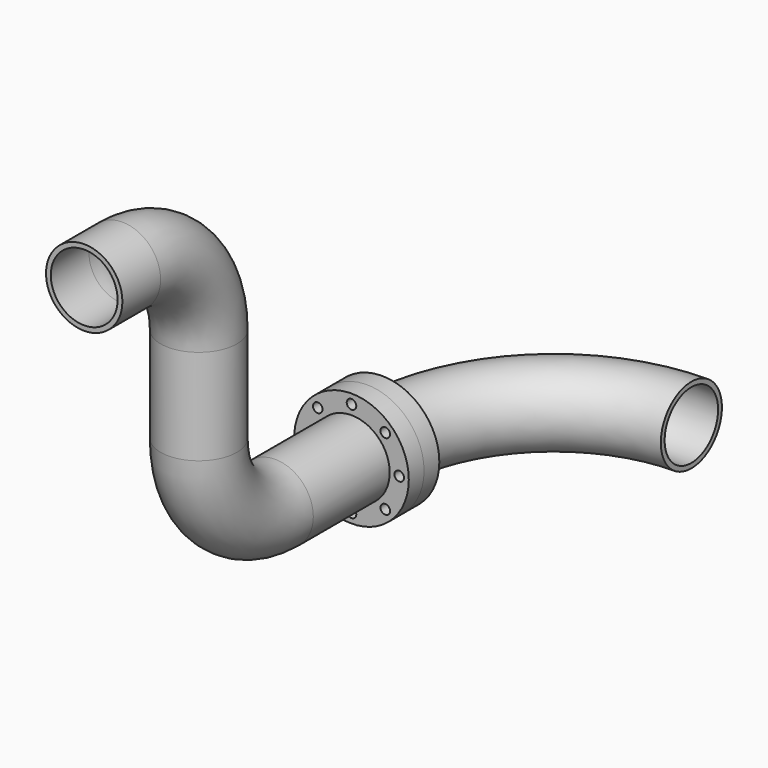
from build123d import *

# Parameters (mm, degrees)
F0_R     = 60
F0_R_2   = 5
F0_R_3   = 35
F1_DEPTH = 20
F2_DEPTH = 20
F3_R     = 40
F3_R_2   = 35
F6_R     = 40
F6_R_2   = 35
F7_ANGLE = 90


with BuildPart() as f1:
    # F0 (on Front) → F1 (new body)
    with BuildSketch(Plane.XZ):
        Circle(F0_R)
        with Locations((-35.3553390593, -35.3553390593)):
            Circle(F0_R_2, mode=Mode.SUBTRACT)
        with Locations((0, -50)):
            Circle(F0_R_2, mode=Mode.SUBTRACT)
        with Locations((35.3553390593, -35.3553390593)):
            Circle(F0_R_2, mode=Mode.SUBTRACT)
        with Locations((-50, 0)):
            Circle(F0_R_2, mode=Mode.SUBTRACT)
        with Locations((-35.3553390593, 35.3553390593)):
            Circle(F0_R_2, mode=Mode.SUBTRACT)
        Circle(F0_R_3, mode=Mode.SUBTRACT)
        with Locations((50, 0)):
            Circle(F0_R_2, mode=Mode.SUBTRACT)
        with Locations((0, 50)):
            Circle(F0_R_2, mode=Mode.SUBTRACT)
        with Locations((35.3553390593, 35.3553390593)):
            Circle(F0_R_2, mode=Mode.SUBTRACT)
    extrude(amount=-F1_DEPTH)


with BuildPart() as f2:
    # F2 (new): a face of the model
    f2_faces = [f1.part.faces().sort_by_distance(p)[0] for p in [
        (-58.3029437252, 20, 0),
    ]]
    extrude(f2_faces, amount=F2_DEPTH)

    # F6 (on face) → F7 (revolve)
    with BuildSketch(Plane(origin=(0, 40, 0), x_dir=(-1, 0, 0), z_dir=(0, 1, 0))):
        Circle(F6_R)
        Circle(F6_R_2, mode=Mode.SUBTRACT)
    revolve(axis=Axis((180, 40, -18.7680572271), (0, 0, -1)), revolution_arc=F7_ANGLE)


with BuildPart() as f1_1:
    add(f1.part)

    # F5: sweep along a path in F4
    with BuildLine(Plane.YZ) as f5_path:
        Line((0, 0), (-100, 0))
        ThreePointArc((-100, 0), (-170.7106781187, 29.2893218813), (-200, 100))
        Line((-200, 100), (-200, 200))
        ThreePointArc((-200, 200), (-229.2893218813, 270.7106781187), (-300, 300))
        Line((-300, 300), (-350, 300))
    # F3 (on Front) → F5 (sweep)
    with BuildSketch(Plane.XZ):
        Circle(F3_R)
        Circle(F3_R_2, mode=Mode.SUBTRACT)
    sweep(path=f5_path.line)


solid = Compound([f2.part, f1_1.part])
